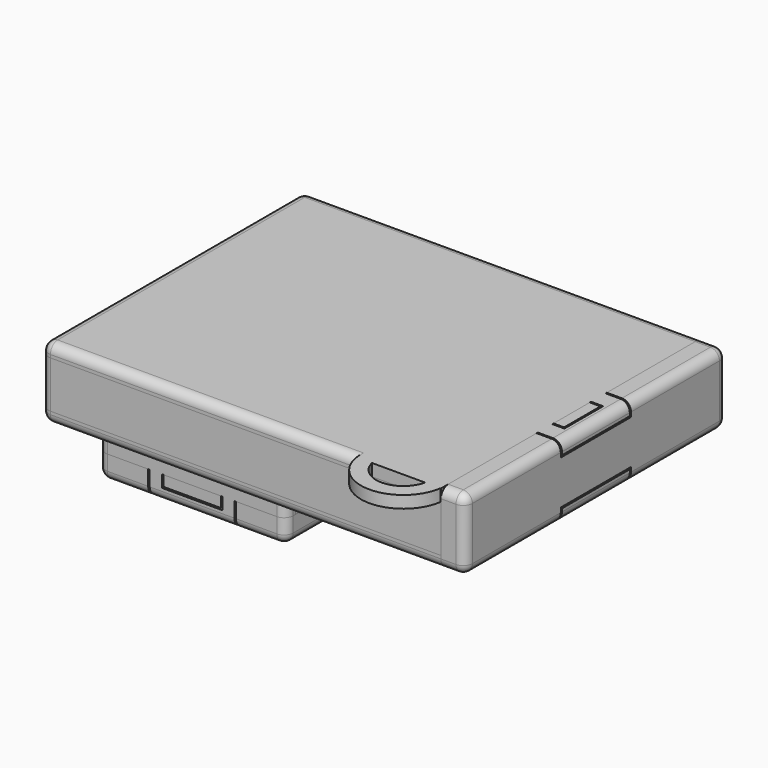
from build123d import *

# Parameters (mm, degrees)
BOX003_W          = 63
BOX003_H          = 3
BOX003_DEPTH      = 7.75
BOX004_W          = 63
BOX004_H          = 3
BOX004_DEPTH      = 7.75
BOX_W             = 3
BOX_H             = 54
BOX_DEPTH         = 7.75
FILLET_R          = 1.5
BOX054_W          = 2.25
BOX054_H          = 7.5
BOX054_DEPTH      = 2.25
BOX052_W          = 4
BOX052_H          = 3.5
BOX052_DEPTH      = 2.25
BOX053_W          = 4
BOX053_H          = 3.5
BOX053_DEPTH      = 2.25
BOX056_W          = 2.25
BOX056_H          = 7.5
BOX056_DEPTH      = 2.25
BOX055_W          = 4
BOX055_H          = 3.5
BOX055_DEPTH      = 2.25
BOX057_W          = 4
BOX057_H          = 3.5
BOX057_DEPTH      = 2.25
BOX024_W          = 4
BOX024_H          = 54
BOX024_DEPTH      = 11.75
FILLET011_R       = 1.5
BOX023_W          = 66
BOX023_H          = 54
BOX023_DEPTH      = 2
BOX048_W          = 4
BOX048_H          = 3
BOX048_DEPTH      = 2
BOX050_W          = 2
BOX050_H          = 8
BOX050_DEPTH      = 2
BOX049_W          = 4
BOX049_H          = 3
BOX049_DEPTH      = 2
BOX051_W          = 14
BOX051_H          = 8
BOX051_DEPTH      = 2
CYLINDER006_R     = 4.5
CYLINDER006_DEPTH = 2
CYLINDER005_R     = 7
CYLINDER005_DEPTH = 2
FILLET015_R       = 1.5
BOX077_W          = 2
BOX077_H          = 2
BOX077_DEPTH      = 4
BOX076_W          = 2
BOX076_H          = 2
BOX076_DEPTH      = 4
BOX075_W          = 31
BOX075_H          = 2
BOX075_DEPTH      = 9
BOX078_W          = 10
BOX078_H          = 2
BOX078_DEPTH      = 2
FILLET023_R       = 1.5
BOX074_W          = 10
BOX074_H          = 2
BOX074_DEPTH      = 2
BOX073_W          = 2
BOX073_H          = 2
BOX073_DEPTH      = 4
BOX072_W          = 2
BOX072_H          = 2
BOX072_DEPTH      = 4
BOX071_W          = 31
BOX071_H          = 2
BOX071_DEPTH      = 9
FILLET024_R       = 1.5
BOX029_W          = 2
BOX029_H          = 26.5
BOX029_DEPTH      = 5
BOX031_W          = 2
BOX031_H          = 6.5
BOX031_DEPTH      = 4
BOX032_W          = 2
BOX032_H          = 6.5
BOX032_DEPTH      = 4
BOX033_W          = 2
BOX033_H          = 26.5
BOX033_DEPTH      = 3.7
BOX034_W          = 2
BOX034_H          = 8.5
BOX034_DEPTH      = 3
BOX035_W          = 2
BOX035_H          = 8.5
BOX035_DEPTH      = 3
BOX038_W          = 2
BOX038_H          = 26.5
BOX038_DEPTH      = 2.3
BOX039_W          = 5
BOX039_H          = 2
BOX039_DEPTH      = 7
BOX040_W          = 5
BOX040_H          = 2
BOX040_DEPTH      = 7
BOX042_W          = 27
BOX042_H          = 26.5
BOX042_DEPTH      = 2
BOX044_W          = 4
BOX044_H          = 3
BOX044_DEPTH      = 2
BOX045_W          = 2
BOX045_H          = 8
BOX045_DEPTH      = 2
BOX043_W          = 4
BOX043_H          = 3
BOX043_DEPTH      = 2
BOX041_W          = 66
BOX041_H          = 54
BOX041_DEPTH      = 2
FILLET025_R       = 1.5
BOX097_W          = 5.5
BOX097_H          = 4.5
BOX097_DEPTH      = 1.5
BOX096_W          = 9
BOX096_H          = 8
BOX096_DEPTH      = 1.5
BOX090_W          = 2.5
BOX090_H          = 6.5
BOX090_DEPTH      = 2
BOX089_W          = 2.5
BOX089_H          = 26.5
BOX089_DEPTH      = 2
CYLINDER008_R     = 1.9
CYLINDER008_DEPTH = 2
CYLINDER007_R     = 1.9
CYLINDER007_DEPTH = 2
BOX068_W          = 5
BOX068_H          = 3
BOX068_DEPTH      = 2
BOX086_W          = 2.5
BOX086_H          = 2.25
BOX086_DEPTH      = 4
BOX087_W          = 2.5
BOX087_H          = 2.25
BOX087_DEPTH      = 4
BOX088_W          = 10
BOX088_H          = 2.25
BOX088_DEPTH      = 2.25
BOX085_W          = 10
BOX085_H          = 2.25
BOX085_DEPTH      = 2.25
BOX083_W          = 2.5
BOX083_H          = 2.25
BOX083_DEPTH      = 4
BOX084_W          = 2.5
BOX084_H          = 2.25
BOX084_DEPTH      = 4
BOX079_W          = 31
BOX079_H          = 2
BOX079_DEPTH      = 2
BOX081_W          = 31
BOX081_H          = 2
BOX081_DEPTH      = 2
BOX082_W          = 26
BOX082_H          = 2
BOX082_DEPTH      = 2
BOX058_W          = 31
BOX058_H          = 30.5
BOX058_DEPTH      = 2
BOX080_W          = 26
BOX080_H          = 2
BOX080_DEPTH      = 2
FILLET019_R       = 1.5
BOX091_W          = 2.5
BOX091_H          = 6.5
BOX091_DEPTH      = 2
BOX093_W          = 2.5
BOX093_H          = 2.5
BOX093_DEPTH      = 1.5
BOX067_W          = 4.5
BOX067_H          = 2.5
BOX067_DEPTH      = 10.5
BOX092_W          = 2.5
BOX092_H          = 2.5
BOX092_DEPTH      = 1.5
BOX098_W          = 2
BOX098_H          = 6
BOX098_DEPTH      = 3
BOX070_W          = 5
BOX070_H          = 3
BOX070_DEPTH      = 2
BOX095_W          = 8
BOX095_H          = 1.5
BOX095_DEPTH      = 2.5
BOX069_W          = 8
BOX069_H          = 6
BOX069_DEPTH      = 2
BOX094_W          = 8
BOX094_H          = 1.5
BOX094_DEPTH      = 2.5


with BuildPart() as cube003:
    # Box003 → Box003 (new body)
    with BuildSketch(Plane(origin=(2, -3, 0), x_dir=(1, 0, 0), z_dir=(0, 0, 1))):
        with Locations((31.5, 1.5)):
            Rectangle(BOX003_W, BOX003_H)
    extrude(amount=BOX003_DEPTH)


with BuildPart() as cube004:
    # Box004 → Box004 (new body)
    with BuildSketch(Plane(origin=(2, 48, 0), x_dir=(1, 0, 0), z_dir=(0, 0, 1))):
        with Locations((31.5, 1.5)):
            Rectangle(BOX004_W, BOX004_H)
    extrude(amount=BOX004_DEPTH)


with BuildPart() as main_sides:
    # Box → Box (new body)
    with BuildSketch(Plane(origin=(-1, -3, 0), x_dir=(1, 0, 0), z_dir=(0, 0, 1))):
        with Locations((1.5, 27)):
            Rectangle(BOX_W, BOX_H)
    extrude(amount=BOX_DEPTH)

    # Fusion: union Cube003, Cube004
    add(cube003.part)
    add(cube004.part)

    # Fillet
    fillet_edges = [main_sides.edges().sort_by_distance(p)[0] for p in [
        (-1, 51, 3.875),
        (-1, -3, 3.875),
    ]]
    fillet(fillet_edges, radius=FILLET_R)


with BuildPart() as cube054:
    # Box054 → Box054 (new body)
    with BuildSketch(Plane(origin=(66.75, 20.25, 7.5), x_dir=(1, 0, 0), z_dir=(0, 0, 1))):
        with Locations((1.125, 3.75)):
            Rectangle(BOX054_W, BOX054_H)
    extrude(amount=BOX054_DEPTH)


with BuildPart() as cube052:
    # Box052 → Box052 (new body)
    with BuildSketch(Plane(origin=(65, 16.75, 7.5), x_dir=(1, 0, 0), z_dir=(0, 0, 1))):
        with Locations((2, 1.75)):
            Rectangle(BOX052_W, BOX052_H)
    extrude(amount=BOX052_DEPTH)


with BuildPart() as cube053:
    # Box053 → Box053 (new body)
    with BuildSketch(Plane(origin=(65, 27.75, 7.5), x_dir=(1, 0, 0), z_dir=(0, 0, 1))):
        with Locations((2, 1.75)):
            Rectangle(BOX053_W, BOX053_H)
    extrude(amount=BOX053_DEPTH)


with BuildPart() as cube056:
    # Box056 → Box056 (new body)
    with BuildSketch(Plane(origin=(66.75, 20.25, -2), x_dir=(1, 0, 0), z_dir=(0, 0, 1))):
        with Locations((1.125, 3.75)):
            Rectangle(BOX056_W, BOX056_H)
    extrude(amount=BOX056_DEPTH)


with BuildPart() as cube055:
    # Box055 → Box055 (new body)
    with BuildSketch(Plane(origin=(65, 16.75, -2), x_dir=(1, 0, 0), z_dir=(0, 0, 1))):
        with Locations((2, 1.75)):
            Rectangle(BOX055_W, BOX055_H)
    extrude(amount=BOX055_DEPTH)


with BuildPart() as cube057:
    # Box057 → Box057 (new body)
    with BuildSketch(Plane(origin=(65, 27.75, -2), x_dir=(1, 0, 0), z_dir=(0, 0, 1))):
        with Locations((2, 1.75)):
            Rectangle(BOX057_W, BOX057_H)
    extrude(amount=BOX057_DEPTH)


with BuildPart() as battery_cover:
    # Box024 → Box024 (new body)
    with BuildSketch(Plane(origin=(65, -3, -2), x_dir=(1, 0, 0), z_dir=(0, 0, 1))):
        with Locations((2, 27)):
            Rectangle(BOX024_W, BOX024_H)
    extrude(amount=BOX024_DEPTH)

    # Fillet011
    fillet011_edges = [battery_cover.edges().sort_by_distance(p)[0] for p in [
        (69, -3, 3.875),
        (69, 24, 9.75),
        (69, 51, 3.875),
        (69, 24, -2),
        (67, -3, -2),
        (67, -3, 9.75),
        (67, 51, -2),
        (67, 51, 9.75),
    ]]
    fillet(fillet011_edges, radius=FILLET011_R)

    # Cut007: cut Cube057
    add(cube057.part, mode=Mode.SUBTRACT)

    # Cut008: cut Cube055
    add(cube055.part, mode=Mode.SUBTRACT)

    # Cut009: cut Cube056
    add(cube056.part, mode=Mode.SUBTRACT)

    # Cut010: cut Cube053
    add(cube053.part, mode=Mode.SUBTRACT)

    # Cut011: cut Cube052
    add(cube052.part, mode=Mode.SUBTRACT)

    # Cut012: cut Cube054
    add(cube054.part, mode=Mode.SUBTRACT)


with BuildPart() as cube023:
    # Box023 → Box023 (new body)
    with BuildSketch(Plane(origin=(-1, -3, 7.75), x_dir=(1, 0, 0), z_dir=(0, 0, 1))):
        with Locations((33, 27)):
            Rectangle(BOX023_W, BOX023_H)
    extrude(amount=BOX023_DEPTH)


with BuildPart() as cube048:
    # Box048 → Box048 (new body)
    with BuildSketch(Plane(origin=(65, 17, 7.75), x_dir=(1, 0, 0), z_dir=(0, 0, 1))):
        with Locations((2, 1.5)):
            Rectangle(BOX048_W, BOX048_H)
    extrude(amount=BOX048_DEPTH)


with BuildPart() as cube050:
    # Box050 → Box050 (new body)
    with BuildSketch(Plane(origin=(67, 20, 7.75), x_dir=(1, 0, 0), z_dir=(0, 0, 1))):
        with Locations((1, 4)):
            Rectangle(BOX050_W, BOX050_H)
    extrude(amount=BOX050_DEPTH)


with BuildPart() as cube049:
    # Box049 → Box049 (new body)
    with BuildSketch(Plane(origin=(65, 28, 7.75), x_dir=(1, 0, 0), z_dir=(0, 0, 1))):
        with Locations((2, 1.5)):
            Rectangle(BOX049_W, BOX049_H)
    extrude(amount=BOX049_DEPTH)


with BuildPart() as cube051:
    # Box051 → Box051 (new body)
    with BuildSketch(Plane(origin=(51, -3, 7.75), x_dir=(1, 0, 0), z_dir=(0, 0, 1))):
        with Locations((7, 4)):
            Rectangle(BOX051_W, BOX051_H)
    extrude(amount=BOX051_DEPTH)


with BuildPart() as cylinder006:
    # Cylinder006 → Cylinder006 (new body)
    with BuildSketch(Plane(origin=(58, -2, 7.75), x_dir=(1, 0, 0), z_dir=(0, 0, 1))):
        Circle(CYLINDER006_R)
    extrude(amount=CYLINDER006_DEPTH)


with BuildPart() as main_bottom:
    # Cylinder005 → Cylinder005 (new body)
    with BuildSketch(Plane(origin=(58, -2, 7.75), x_dir=(1, 0, 0), z_dir=(0, 0, 1))):
        Circle(CYLINDER005_R)
    extrude(amount=CYLINDER005_DEPTH)

    # Cut016: cut Cylinder006
    add(cylinder006.part, mode=Mode.SUBTRACT)

    # Cut017: cut Cube051
    add(cube051.part, mode=Mode.SUBTRACT)

    # Fusion007: union Cube023, Cube048, Cube050, Cube049
    add(cube023.part)
    add(cube048.part)
    add(cube050.part)
    add(cube049.part)

    # Fillet015
    fillet015_edges = [main_bottom.edges().sort_by_distance(p)[0] for p in [
        (69, 18.5, 9.75),
        (-1, -3, 8.75),
        (-1, 24, 9.75),
        (-1, 51, 8.75),
        (32, 51, 9.75),
        (25.035898, -3, 9.75),
        (69, 24, 9.75),
        (69, 29.5, 9.75),
    ]]
    fillet(fillet015_edges, radius=FILLET015_R)


with BuildPart() as cube077:
    # Box077 → Box077 (new body)
    with BuildSketch(Plane(origin=(19.5, 8.75, -15), x_dir=(1, 0, 0), z_dir=(0, 0, 1))):
        with Locations((1, 1)):
            Rectangle(BOX077_W, BOX077_H)
    extrude(amount=BOX077_DEPTH)


with BuildPart() as cube076:
    # Box076 → Box076 (new body)
    with BuildSketch(Plane(origin=(7.5, 8.75, -15), x_dir=(1, 0, 0), z_dir=(0, 0, 1))):
        with Locations((1, 1)):
            Rectangle(BOX076_W, BOX076_H)
    extrude(amount=BOX076_DEPTH)


with BuildPart() as cube075:
    # Box075 → Box075 (new body)
    with BuildSketch(Plane(origin=(-1, 8.75, -11), x_dir=(1, 0, 0), z_dir=(0, 0, 1))):
        with Locations((15.5, 1)):
            Rectangle(BOX075_W, BOX075_H)
    extrude(amount=BOX075_DEPTH)


with BuildPart() as fillet023:
    # Box078 → Box078 (new body)
    with BuildSketch(Plane(origin=(9.5, 8.75, -15), x_dir=(1, 0, 0), z_dir=(0, 0, 1))):
        with Locations((5, 1)):
            Rectangle(BOX078_W, BOX078_H)
    extrude(amount=BOX078_DEPTH)

    # Fusion016: union Cube077, Cube076, Cube075
    add(cube077.part)
    add(cube076.part)
    add(cube075.part)

    # Fillet023
    fillet023_edges = [fillet023.edges().sort_by_distance(p)[0] for p in [
        (-1, 8.75, -6.5),
        (30, 8.75, -6.5),
        (8.5, 8.75, -15),
        (20.5, 8.75, -15),
        (14.5, 8.75, -15),
    ]]
    fillet(fillet023_edges, radius=FILLET023_R)


with BuildPart() as cube074:
    # Box074 → Box074 (new body)
    with BuildSketch(Plane(origin=(9.5, 37.25, -15), x_dir=(1, 0, 0), z_dir=(0, 0, 1))):
        with Locations((5, 1)):
            Rectangle(BOX074_W, BOX074_H)
    extrude(amount=BOX074_DEPTH)


with BuildPart() as cube073:
    # Box073 → Box073 (new body)
    with BuildSketch(Plane(origin=(19.5, 37.25, -15), x_dir=(1, 0, 0), z_dir=(0, 0, 1))):
        with Locations((1, 1)):
            Rectangle(BOX073_W, BOX073_H)
    extrude(amount=BOX073_DEPTH)


with BuildPart() as cube072:
    # Box072 → Box072 (new body)
    with BuildSketch(Plane(origin=(7.5, 37.25, -15), x_dir=(1, 0, 0), z_dir=(0, 0, 1))):
        with Locations((1, 1)):
            Rectangle(BOX072_W, BOX072_H)
    extrude(amount=BOX072_DEPTH)


with BuildPart() as fillet024:
    # Box071 → Box071 (new body)
    with BuildSketch(Plane(origin=(-1, 37.25, -11), x_dir=(1, 0, 0), z_dir=(0, 0, 1))):
        with Locations((15.5, 1)):
            Rectangle(BOX071_W, BOX071_H)
    extrude(amount=BOX071_DEPTH)

    # Fusion017: union Cube074, Cube073, Cube072
    add(cube074.part)
    add(cube073.part)
    add(cube072.part)

    # Fillet024
    fillet024_edges = [fillet024.edges().sort_by_distance(p)[0] for p in [
        (20.5, 39.25, -15),
        (14.5, 39.25, -15),
        (-1, 39.25, -6.5),
        (30, 39.25, -6.5),
        (8.5, 39.25, -15),
    ]]
    fillet(fillet024_edges, radius=FILLET024_R)


with BuildPart() as cube029:
    # Box029 → Box029 (new body)
    with BuildSketch(Plane(origin=(-1, 10.75, -7), x_dir=(1, 0, 0), z_dir=(0, 0, 1))):
        with Locations((1, 13.25)):
            Rectangle(BOX029_W, BOX029_H)
    extrude(amount=BOX029_DEPTH)


with BuildPart() as cube031:
    # Box031 → Box031 (new body)
    with BuildSketch(Plane(origin=(-1, 10.75, -11), x_dir=(1, 0, 0), z_dir=(0, 0, 1))):
        with Locations((1, 3.25)):
            Rectangle(BOX031_W, BOX031_H)
    extrude(amount=BOX031_DEPTH)


with BuildPart() as cube032:
    # Box032 → Box032 (new body)
    with BuildSketch(Plane(origin=(-1, 30.75, -11), x_dir=(1, 0, 0), z_dir=(0, 0, 1))):
        with Locations((1, 3.25)):
            Rectangle(BOX032_W, BOX032_H)
    extrude(amount=BOX032_DEPTH)


with BuildPart() as cube033:
    # Box033 → Box033 (new body)
    with BuildSketch(Plane(origin=(28, 10.75, -5.7), x_dir=(1, 0, 0), z_dir=(0, 0, 1))):
        with Locations((1, 13.25)):
            Rectangle(BOX033_W, BOX033_H)
    extrude(amount=BOX033_DEPTH)


with BuildPart() as cube034:
    # Box034 → Box034 (new body)
    with BuildSketch(Plane(origin=(28, 28.75, -8.7), x_dir=(1, 0, 0), z_dir=(0, 0, 1))):
        with Locations((1, 4.25)):
            Rectangle(BOX034_W, BOX034_H)
    extrude(amount=BOX034_DEPTH)


with BuildPart() as cube035:
    # Box035 → Box035 (new body)
    with BuildSketch(Plane(origin=(28, 10.75, -8.7), x_dir=(1, 0, 0), z_dir=(0, 0, 1))):
        with Locations((1, 4.25)):
            Rectangle(BOX035_W, BOX035_H)
    extrude(amount=BOX035_DEPTH)


with BuildPart() as cube038:
    # Box038 → Box038 (new body)
    with BuildSketch(Plane(origin=(28, 10.75, -11), x_dir=(1, 0, 0), z_dir=(0, 0, 1))):
        with Locations((1, 13.25)):
            Rectangle(BOX038_W, BOX038_H)
    extrude(amount=BOX038_DEPTH)


with BuildPart() as cube039:
    # Box039 → Box039 (new body)
    with BuildSketch(Plane(origin=(1, 15, -9), x_dir=(1, 0, 0), z_dir=(0, 0, 1))):
        with Locations((2.5, 1)):
            Rectangle(BOX039_W, BOX039_H)
    extrude(amount=BOX039_DEPTH)


with BuildPart() as cube040:
    # Box040 → Box040 (new body)
    with BuildSketch(Plane(origin=(1, 31, -9), x_dir=(1, 0, 0), z_dir=(0, 0, 1))):
        with Locations((2.5, 1)):
            Rectangle(BOX040_W, BOX040_H)
    extrude(amount=BOX040_DEPTH)


with BuildPart() as cube042:
    # Box042 → Box042 (new body)
    with BuildSketch(Plane(origin=(1, 10.75, -2), x_dir=(1, 0, 0), z_dir=(0, 0, 1))):
        with Locations((13.5, 13.25)):
            Rectangle(BOX042_W, BOX042_H)
    extrude(amount=BOX042_DEPTH)


with BuildPart() as cube044:
    # Box044 → Box044 (new body)
    with BuildSketch(Plane(origin=(65, 28, -2), x_dir=(1, 0, 0), z_dir=(0, 0, 1))):
        with Locations((2, 1.5)):
            Rectangle(BOX044_W, BOX044_H)
    extrude(amount=BOX044_DEPTH)


with BuildPart() as cube045:
    # Box045 → Box045 (new body)
    with BuildSketch(Plane(origin=(67, 20, -2), x_dir=(1, 0, 0), z_dir=(0, 0, 1))):
        with Locations((1, 4)):
            Rectangle(BOX045_W, BOX045_H)
    extrude(amount=BOX045_DEPTH)


with BuildPart() as cube043:
    # Box043 → Box043 (new body)
    with BuildSketch(Plane(origin=(65, 17, -2), x_dir=(1, 0, 0), z_dir=(0, 0, 1))):
        with Locations((2, 1.5)):
            Rectangle(BOX043_W, BOX043_H)
    extrude(amount=BOX043_DEPTH)


with BuildPart() as main_top:
    # Box041 → Box041 (new body)
    with BuildSketch(Plane(origin=(-1, -3, -2), x_dir=(1, 0, 0), z_dir=(0, 0, 1))):
        with Locations((33, 27)):
            Rectangle(BOX041_W, BOX041_H)
    extrude(amount=BOX041_DEPTH)

    # Fusion001: union Cube044, Cube045, Cube043
    add(cube044.part)
    add(cube045.part)
    add(cube043.part)

    # Cut: cut Cube042
    add(cube042.part, mode=Mode.SUBTRACT)

    # Fusion015: union Cube029, Cube031, Cube032, Cube033, Cube034, Cube035, Cube038, Cube039, Cube040
    add(cube029.part)
    add(cube031.part)
    add(cube032.part)
    add(cube033.part)
    add(cube034.part)
    add(cube035.part)
    add(cube038.part)
    add(cube039.part)
    add(cube040.part)

    # Fillet025
    fillet025_edges = [main_top.edges().sort_by_distance(p)[0] for p in [
        (-1, 30.75, -9),
        (-1, 17.25, -9),
        (-1, 3.875, -2),
        (-1, 44.125, -2),
        (32, 51, -2),
        (32, -3, -2),
        (-1, -3, -1),
        (-1, 51, -1),
        (69, 29.5, -2),
        (69, 18.5, -2),
        (69, 24, -2),
    ]]
    fillet(fillet025_edges, radius=FILLET025_R)


with BuildPart() as cube097:
    # Box097 → Box097 (new body)
    with BuildSketch(Plane(origin=(18.25, 14.75, -16.5), x_dir=(1, 0, 0), z_dir=(0, 0, 1))):
        with Locations((2.75, 2.25)):
            Rectangle(BOX097_W, BOX097_H)
    extrude(amount=BOX097_DEPTH)


with BuildPart() as button_guard:
    # Box096 → Box096 (new body)
    with BuildSketch(Plane(origin=(16.5, 13, -16.5), x_dir=(1, 0, 0), z_dir=(0, 0, 1))):
        with Locations((4.5, 4)):
            Rectangle(BOX096_W, BOX096_H)
    extrude(amount=BOX096_DEPTH)

    # Cut032: cut Cube097
    add(cube097.part, mode=Mode.SUBTRACT)


with BuildPart() as cube090:
    # Box090 → Box090 (new body)
    with BuildSketch(Plane(origin=(-1, 10.75, -13), x_dir=(1, 0, 0), z_dir=(0, 0, 1))):
        with Locations((1.25, 3.25)):
            Rectangle(BOX090_W, BOX090_H)
    extrude(amount=BOX090_DEPTH)


with BuildPart() as cube089:
    # Box089 → Box089 (new body)
    with BuildSketch(Plane(origin=(27.5, 10.75, -13), x_dir=(1, 0, 0), z_dir=(0, 0, 1))):
        with Locations((1.25, 13.25)):
            Rectangle(BOX089_W, BOX089_H)
    extrude(amount=BOX089_DEPTH)


with BuildPart() as cylinder008:
    # Cylinder008 → Cylinder008 (new body)
    with BuildSketch(Plane(origin=(25, 30, -15), x_dir=(1, 0, 0), z_dir=(0, 0, 1))):
        Circle(CYLINDER008_R)
    extrude(amount=CYLINDER008_DEPTH)


with BuildPart() as cylinder007:
    # Cylinder007 → Cylinder007 (new body)
    with BuildSketch(Plane(origin=(14, 30, -15), x_dir=(1, 0, 0), z_dir=(0, 0, 1))):
        Circle(CYLINDER007_R)
    extrude(amount=CYLINDER007_DEPTH)


with BuildPart() as cube068:
    # Box068 → Box068 (new body)
    with BuildSketch(Plane(origin=(18.5, 15.5, -15), x_dir=(1, 0, 0), z_dir=(0, 0, 1))):
        with Locations((2.5, 1.5)):
            Rectangle(BOX068_W, BOX068_H)
    extrude(amount=BOX068_DEPTH)


with BuildPart() as cube086:
    # Box086 → Box086 (new body)
    with BuildSketch(Plane(origin=(7.25, 37, -15), x_dir=(1, 0, 0), z_dir=(0, 0, 1))):
        with Locations((1.25, 1.125)):
            Rectangle(BOX086_W, BOX086_H)
    extrude(amount=BOX086_DEPTH)


with BuildPart() as cube087:
    # Box087 → Box087 (new body)
    with BuildSketch(Plane(origin=(19.25, 37, -15), x_dir=(1, 0, 0), z_dir=(0, 0, 1))):
        with Locations((1.25, 1.125)):
            Rectangle(BOX087_W, BOX087_H)
    extrude(amount=BOX087_DEPTH)


with BuildPart() as cube088:
    # Box088 → Box088 (new body)
    with BuildSketch(Plane(origin=(9.5, 37, -15), x_dir=(1, 0, 0), z_dir=(0, 0, 1))):
        with Locations((5, 1.125)):
            Rectangle(BOX088_W, BOX088_H)
    extrude(amount=BOX088_DEPTH)


with BuildPart() as cube085:
    # Box085 → Box085 (new body)
    with BuildSketch(Plane(origin=(9.5, 8.75, -15), x_dir=(1, 0, 0), z_dir=(0, 0, 1))):
        with Locations((5, 1.125)):
            Rectangle(BOX085_W, BOX085_H)
    extrude(amount=BOX085_DEPTH)


with BuildPart() as cube083:
    # Box083 → Box083 (new body)
    with BuildSketch(Plane(origin=(19.25, 8.75, -15), x_dir=(1, 0, 0), z_dir=(0, 0, 1))):
        with Locations((1.25, 1.125)):
            Rectangle(BOX083_W, BOX083_H)
    extrude(amount=BOX083_DEPTH)


with BuildPart() as cube084:
    # Box084 → Box084 (new body)
    with BuildSketch(Plane(origin=(7.25, 8.75, -15), x_dir=(1, 0, 0), z_dir=(0, 0, 1))):
        with Locations((1.25, 1.125)):
            Rectangle(BOX084_W, BOX084_H)
    extrude(amount=BOX084_DEPTH)


with BuildPart() as cube079:
    # Box079 → Box079 (new body)
    with BuildSketch(Plane(origin=(-1, 8.75, -13), x_dir=(1, 0, 0), z_dir=(0, 0, 1))):
        with Locations((15.5, 1)):
            Rectangle(BOX079_W, BOX079_H)
    extrude(amount=BOX079_DEPTH)


with BuildPart() as cube081:
    # Box081 → Box081 (new body)
    with BuildSketch(Plane(origin=(-1, 37.25, -13), x_dir=(1, 0, 0), z_dir=(0, 0, 1))):
        with Locations((15.5, 1)):
            Rectangle(BOX081_W, BOX081_H)
    extrude(amount=BOX081_DEPTH)


with BuildPart() as cube082:
    # Box082 → Box082 (new body)
    with BuildSketch(Plane(origin=(1.5, 35.25, -13), x_dir=(1, 0, 0), z_dir=(0, 0, 1))):
        with Locations((13, 1)):
            Rectangle(BOX082_W, BOX082_H)
    extrude(amount=BOX082_DEPTH)


with BuildPart() as cube058:
    # Box058 → Box058 (new body)
    with BuildSketch(Plane(origin=(-1, 8.75, -15), x_dir=(1, 0, 0), z_dir=(0, 0, 1))):
        with Locations((15.5, 15.25)):
            Rectangle(BOX058_W, BOX058_H)
    extrude(amount=BOX058_DEPTH)


with BuildPart() as cut030:
    # Box080 → Box080 (new body)
    with BuildSketch(Plane(origin=(1.5, 10.75, -13), x_dir=(1, 0, 0), z_dir=(0, 0, 1))):
        with Locations((13, 1)):
            Rectangle(BOX080_W, BOX080_H)
    extrude(amount=BOX080_DEPTH)

    # Fusion012: union Cube079, Cube081, Cube082, Cube058
    add(cube079.part)
    add(cube081.part)
    add(cube082.part)
    add(cube058.part)

    # Fillet019
    fillet019_edges = [cut030.edges().sort_by_distance(p)[0] for p in [
        (-1, 24, -15),
        (14.5, 39.25, -15),
        (30, 24, -15),
        (14.5, 8.75, -15),
        (-1, 8.75, -14),
        (-1, 39.25, -14),
        (30, 39.25, -14),
        (30, 8.75, -14),
        (-1, 8.75, -12),
        (-1, 39.25, -12),
        (30, 39.25, -12),
        (30, 8.75, -12),
    ]]
    fillet(fillet019_edges, radius=FILLET019_R)

    # Cut022: cut Cube084
    add(cube084.part, mode=Mode.SUBTRACT)

    # Cut023: cut Cube083
    add(cube083.part, mode=Mode.SUBTRACT)

    # Cut024: cut Cube085
    add(cube085.part, mode=Mode.SUBTRACT)

    # Cut025: cut Cube088
    add(cube088.part, mode=Mode.SUBTRACT)

    # Cut026: cut Cube087
    add(cube087.part, mode=Mode.SUBTRACT)

    # Cut027: cut Cube086
    add(cube086.part, mode=Mode.SUBTRACT)

    # Cut028: cut Cube068
    add(cube068.part, mode=Mode.SUBTRACT)

    # Cut029: cut Cylinder007
    add(cylinder007.part, mode=Mode.SUBTRACT)

    # Cut030: cut Cylinder008
    add(cylinder008.part, mode=Mode.SUBTRACT)


with BuildPart() as top_cover:
    # Box091 → Box091 (new body)
    with BuildSketch(Plane(origin=(-1, 30.75, -13), x_dir=(1, 0, 0), z_dir=(0, 0, 1))):
        with Locations((1.25, 3.25)):
            Rectangle(BOX091_W, BOX091_H)
    extrude(amount=BOX091_DEPTH)

    # Fusion018: union Cube090, Cube089, Cut030
    add(cube090.part)
    add(cube089.part)
    add(cut030.part)

    # Fusion023: union Button_Guard
    add(button_guard.part)


with BuildPart() as cube093:
    # Box093 → Box093 (new body)
    with BuildSketch(Plane(origin=(23.25, 15.75, -12.5), x_dir=(1, 0, 0), z_dir=(0, 0, 1))):
        with Locations((1.25, 1.25)):
            Rectangle(BOX093_W, BOX093_H)
    extrude(amount=BOX093_DEPTH)


with BuildPart() as cube067:
    # Box067 → Box067 (new body)
    with BuildSketch(Plane(origin=(18.75, 15.75, -16), x_dir=(1, 0, 0), z_dir=(0, 0, 1))):
        with Locations((2.25, 1.25)):
            Rectangle(BOX067_W, BOX067_H)
    extrude(amount=BOX067_DEPTH)


with BuildPart() as button:
    # Box092 → Box092 (new body)
    with BuildSketch(Plane(origin=(16.25, 15.75, -12.5), x_dir=(1, 0, 0), z_dir=(0, 0, 1))):
        with Locations((1.25, 1.25)):
            Rectangle(BOX092_W, BOX092_H)
    extrude(amount=BOX092_DEPTH)

    # Fusion024: union Cube093, Cube067
    add(cube093.part)
    add(cube067.part)


with BuildPart() as cube098:
    # Box098 → Box098 (new body)
    with BuildSketch(Plane(origin=(16.5, 14, -11.5), x_dir=(1, 0, 0), z_dir=(0, 0, 1))):
        with Locations((1, 3)):
            Rectangle(BOX098_W, BOX098_H)
    extrude(amount=BOX098_DEPTH)


with BuildPart() as cube070:
    # Box070 → Box070 (new body)
    with BuildSketch(Plane(origin=(18.5, 15.5, -10.5), x_dir=(1, 0, 0), z_dir=(0, 0, 1))):
        with Locations((2.5, 1.5)):
            Rectangle(BOX070_W, BOX070_H)
    extrude(amount=BOX070_DEPTH)


with BuildPart() as cube095:
    # Box095 → Box095 (new body)
    with BuildSketch(Plane(origin=(17, 14, -13), x_dir=(1, 0, 0), z_dir=(0, 0, 1))):
        with Locations((4, 0.75)):
            Rectangle(BOX095_W, BOX095_H)
    extrude(amount=BOX095_DEPTH)


with BuildPart() as cube069:
    # Box069 → Box069 (new body)
    with BuildSketch(Plane(origin=(17, 14, -10.5), x_dir=(1, 0, 0), z_dir=(0, 0, 1))):
        with Locations((4, 3)):
            Rectangle(BOX069_W, BOX069_H)
    extrude(amount=BOX069_DEPTH)


with BuildPart() as button_guide:
    # Box094 → Box094 (new body)
    with BuildSketch(Plane(origin=(17, 18.5, -13), x_dir=(1, 0, 0), z_dir=(0, 0, 1))):
        with Locations((4, 0.75)):
            Rectangle(BOX094_W, BOX094_H)
    extrude(amount=BOX094_DEPTH)

    # Fusion022: union Cube095, Cube069
    add(cube095.part)
    add(cube069.part)

    # Cut033: cut Cube070
    add(cube070.part, mode=Mode.SUBTRACT)

    # Cut034: cut Cube098
    add(cube098.part, mode=Mode.SUBTRACT)


solid = Compound([main_sides.part, battery_cover.part, main_bottom.part, fillet023.part, fillet024.part, main_top.part, top_cover.part, button.part, button_guide.part])
